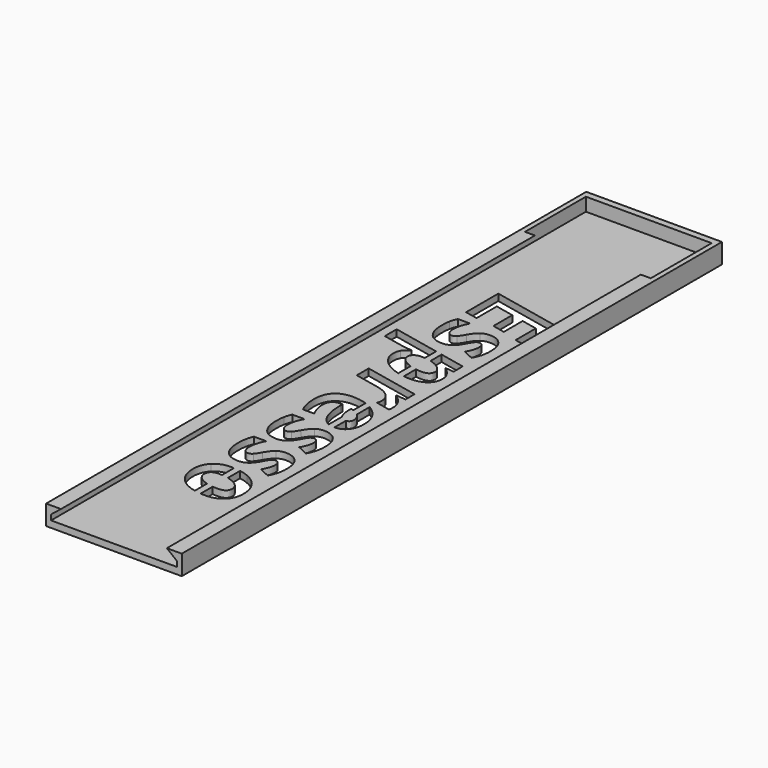
from build123d import *

# Parameters (mm, degrees)
F1_DEPTH = 202
F2_W     = 41
F2_H     = 6
F3_DEPTH = 2
F5_W     = 38
F5_H     = 23
F6_DEPTH = 4
F9_DEPTH = 2


with BuildPart() as f1:
    # F0 (on Front) → F1 (new body)
    with BuildSketch(Plane.XZ):
        Polygon((-20.5, 6), (-20.5, 0), (20.5, 0), (20.5, 6), (16, 6), (19, 3.6), (19, 2), (-19, 2), (-19, 3.6), (-16, 6), align=None)
    extrude(amount=F1_DEPTH)

    # F2 (on Front) → F3 (join)
    with BuildSketch(Plane.XZ):
        with Locations((0, 3)):
            Rectangle(F2_W, F2_H)
    extrude(amount=-F3_DEPTH)

    # F5 (on offset) → F6 (cut)
    with BuildSketch(Plane.XY.offset(6)):
        with Locations((0, -11.5)):
            Rectangle(F5_W, F5_H)
    extrude(amount=-F6_DEPTH, mode=Mode.SUBTRACT)

    # F8 (on offset) → F9 (cut, through all)
    with BuildSketch(Plane.XY.offset(2)):
        Polygon((-9, -45.5649806635), (-9, -57.7537827468), (-5.1805555556, -58.5606403857), (-5.1805555556, -50.9217514968), (0.4435763889, -52.1153278857), (0.4435763889, -59.2290431635), (4.234375, -60.050223719), (4.234375, -52.9317341357), (9.0230034722, -53.9343383024), (9.0230034722, -61.5732271912), (12.8138020833, -62.3800848301), (12.8138020833, -50.1721855246), align=None)
        with BuildLine():
            add(Edge.make_bspline(
                [(-3.4952256944, -73.7047376079), (-6.2977430556, -73.7047376079), (-7.7992621528, -71.8475327468)],
                knots=[0, 0, 0, 1, 1, 1], degree=2))
            add(Edge.make_bspline(
                [(-0.9576822917, -72.8835570524), (-2.0629340278, -73.7047376079), (-3.4952256944, -73.7047376079)],
                knots=[0, 0, 0, 1, 1, 1], degree=2))
            add(Edge.make_bspline(
                [(1.0881076389, -70.2290431635), (0.1475694444, -72.0623764968), (-0.9576822917, -72.8835570524)],
                knots=[0, 0, 0, 1, 1, 1], degree=2))
            add(Edge.make_bspline(
                [(2.1981336806, -68.4386785801), (1.7565104167, -68.9161091357), (1.0881076389, -70.2290431635)],
                knots=[0, 0, 0, 1, 1, 1], degree=2))
            add(Edge.make_bspline(
                [(3.2174479167, -67.9612480246), (2.6397569444, -67.9612480246), (2.1981336806, -68.4386785801)],
                knots=[0, 0, 0, 1, 1, 1], degree=2))
            add(Edge.make_bspline(
                [(4.2415364583, -68.4816473301), (3.8619791667, -67.9612480246), (3.2174479167, -67.9612480246)],
                knots=[0, 0, 0, 1, 1, 1], degree=2))
            add(Edge.make_bspline(
                [(4.62109375, -69.8518730246), (4.62109375, -69.0020466357), (4.2415364583, -68.4816473301)],
                knots=[0, 0, 0, 1, 1, 1], degree=2))
            add(Edge.make_bspline(
                [(3.3702256944, -73.7047376079), (4.62109375, -71.6135917746), (4.62109375, -69.8518730246)],
                knots=[0, 0, 0, 1, 1, 1], degree=2))
            Line((3.3702256944, -73.7047376079), (6.5785590278, -75.1799980246))
            add(Edge.make_bspline(
                [(7.9917534722, -69.7659355246), (7.9917534722, -72.7641994135), (6.5785590278, -75.1799980246)],
                knots=[0, 0, 0, 1, 1, 1], degree=2))
            add(Edge.make_bspline(
                [(6.59765625, -65.056083094), (7.9917534722, -66.7056056635), (7.9917534722, -69.7659355246)],
                knots=[0, 0, 0, 1, 1, 1], degree=2))
            add(Edge.make_bspline(
                [(2.6684027778, -63.4065605246), (5.2035590278, -63.4065605246), (6.59765625, -65.056083094)],
                knots=[0, 0, 0, 1, 1, 1], degree=2))
            add(Edge.make_bspline(
                [(0.2860243056, -64.1227063579), (1.2934027778, -63.4065605246), (2.6684027778, -63.4065605246)],
                knots=[0, 0, 0, 1, 1, 1], degree=2))
            add(Edge.make_bspline(
                [(-1.7335069444, -66.6483139968), (-0.7213541667, -64.8388521912), (0.2860243056, -64.1227063579)],
                knots=[0, 0, 0, 1, 1, 1], degree=2))
            add(Edge.make_bspline(
                [(-3.0177951389, -68.601004969), (-2.51171875, -68.0471855246), (-1.7335069444, -66.6483139968)],
                knots=[0, 0, 0, 1, 1, 1], degree=2))
            add(Edge.make_bspline(
                [(-4.1636284722, -69.1548244135), (-3.5238715278, -69.1548244135), (-3.0177951389, -68.601004969)],
                knots=[0, 0, 0, 1, 1, 1], degree=2))
            add(Edge.make_bspline(
                [(-5.4861111111, -68.3933226774), (-4.9991319444, -69.1548244135), (-4.1636284722, -69.1548244135)],
                knots=[0, 0, 0, 1, 1, 1], degree=2))
            add(Edge.make_bspline(
                [(-5.9730902778, -66.4382445524), (-5.9730902778, -67.6318209412), (-5.4861111111, -68.3933226774)],
                knots=[0, 0, 0, 1, 1, 1], degree=2))
            add(Edge.make_bspline(
                [(-4.6267361111, -61.6782619135), (-5.9730902778, -64.0224459412), (-5.9730902778, -66.4382445524)],
                knots=[0, 0, 0, 1, 1, 1], degree=2))
            Line((-4.6267361111, -61.6782619135), (-8.3268229167, -61.6782619135))
            add(Edge.make_bspline(
                [(-9.0763888889, -63.8935396912), (-8.8519965278, -62.7095119135), (-8.3268229167, -61.6782619135)],
                knots=[0, 0, 0, 1, 1, 1], degree=2))
            add(Edge.make_bspline(
                [(-9.30078125, -66.6769598301), (-9.30078125, -65.077567469), (-9.0763888889, -63.8935396912)],
                knots=[0, 0, 0, 1, 1, 1], degree=2))
            add(Edge.make_bspline(
                [(-7.7992621528, -71.8475327468), (-9.30078125, -69.9903278857), (-9.30078125, -66.6769598301)],
                knots=[0, 0, 0, 1, 1, 1], degree=2))
        make_face()
        with BuildLine():
            Line((7.6814236111, -79.8779146912), (0, -78.2460701284))
            Line((0, -78.2460701284), (0, -82.4328934851))
            add(Edge.make_bspline(
                [(0.6608072917, -82.6326889968), (0.3369384823, -82.5221221202), (0, -82.4328934851)],
                knots=[0, 0, 0, 0.1929894573, 0.1929894573, 0.1929894573], degree=2))
            add(Edge.make_bspline(
                [(3.3463541667, -84.1533053162), (2.3389756944, -83.2056056635), (0.6608072917, -82.6326889968)],
                knots=[0, 0, 0, 1, 1, 1], degree=2))
            add(Edge.make_bspline(
                [(4.3537326389, -86.1179320524), (4.3537326389, -85.101004969), (3.3463541667, -84.1533053162)],
                knots=[0, 0, 0, 1, 1, 1], degree=2))
            add(Edge.make_bspline(
                [(1.7278645833, -88.0706230246), (4.3537326389, -88.0706230246), (4.3537326389, -86.1179320524)],
                knots=[0, 0, 0, 1, 1, 1], degree=2))
            add(Edge.make_bspline(
                [(0, -87.9359820001), (0.8699738761, -88.0706230246), (1.7278645833, -88.0706230246)],
                knots=[0.5090461526, 0.5090461526, 0.5090461526, 1, 1, 1], degree=2))
            Line((0, -87.9359820001), (0, -92.5031942101))
            add(Edge.make_bspline(
                [(1.9045138889, -92.620536219), (0.9401937473, -92.620536219), (0, -92.5031942101)],
                knots=[0, 0, 0, 0.3388946928, 0.3388946928, 0.3388946928], degree=2))
            add(Edge.make_bspline(
                [(6.3899739583, -91.3601195524), (4.7881944444, -92.620536219), (1.9045138889, -92.620536219)],
                knots=[0, 0, 0, 1, 1, 1], degree=2))
            add(Edge.make_bspline(
                [(7.9917534722, -87.9226195524), (7.9917534722, -90.0997028857), (6.3899739583, -91.3601195524)],
                knots=[0, 0, 0, 1, 1, 1], degree=2))
            add(Edge.make_bspline(
                [(5.1462673611, -83.1912827468), (7.9917534722, -85.2490084412), (7.9917534722, -87.9226195524)],
                knots=[0, 0, 0, 1, 1, 1], degree=2))
            Line((5.1462673611, -83.1912827468), (5.1462673611, -83.0576021912))
            Line((5.1462673611, -83.0576021912), (7.6814236111, -83.3106403857))
            Line((7.6814236111, -83.3106403857), (7.6814236111, -79.8779146912))
        make_face()
        with BuildLine():
            Line((-2, -82.0996667161), (-2, -77.8211893653))
            Line((-2, -77.8211893653), (-16.3428819444, -74.7741820524))
            Line((-16.3428819444, -74.7741820524), (-16.3428819444, -79.2668035801))
            Line((-16.3428819444, -79.2668035801), (-11.2677951389, -80.3410223301))
            add(Edge.make_bspline(
                [(-6.8658854167, -80.9855535801), (-9.2387152778, -80.804129969), (-11.2677951389, -80.3410223301)],
                knots=[0, 0, 0, 1, 1, 1], degree=2))
            Line((-6.8658854167, -80.9855535801), (-6.8658854167, -81.104911219))
            add(Edge.make_bspline(
                [(-8.7469618056, -82.759208094), (-8.1931423611, -81.8640258024), (-6.8658854167, -81.104911219)],
                knots=[0, 0, 0, 1, 1, 1], degree=2))
            add(Edge.make_bspline(
                [(-9.30078125, -84.8909355246), (-9.30078125, -83.6543903857), (-8.7469618056, -82.759208094)],
                knots=[0, 0, 0, 1, 1, 1], degree=2))
            add(Edge.make_bspline(
                [(-7.7562934028, -88.8010917746), (-9.30078125, -87.0250501079), (-9.30078125, -84.8909355246)],
                knots=[0, 0, 0, 1, 1, 1], degree=2))
            add(Edge.make_bspline(
                [(-3.5763888889, -91.5988348301), (-6.2118055556, -90.5771334412), (-7.7562934028, -88.8010917746)],
                knots=[0, 0, 0, 1, 1, 1], degree=2))
            add(Edge.make_bspline(
                [(-2, -92.1135823603), (-2.7973720215, -91.9008449925), (-3.5763888889, -91.5988348301)],
                knots=[0.7044046669, 0.7044046669, 0.7044046669, 1, 1, 1], degree=2))
            Line((-2, -92.1135823603), (-2, -87.4536108201))
            add(Edge.make_bspline(
                [(-4.6434461806, -86.0415431635), (-3.667521841, -86.906515548), (-2, -87.4536108201)],
                knots=[0, 0, 0, 0.9485465845, 0.9485465845, 0.9485465845], degree=2))
            add(Edge.make_bspline(
                [(-5.6723090278, -84.1318209412), (-5.6723090278, -85.1296508024), (-4.6434461806, -86.0415431635)],
                knots=[0, 0, 0, 1, 1, 1], degree=2))
            add(Edge.make_bspline(
                [(-4.9561631944, -82.6112046218), (-5.6723090278, -83.1626369135), (-5.6723090278, -84.1318209412)],
                knots=[0, 0, 0, 1, 1, 1], degree=2))
            add(Edge.make_bspline(
                [(-3.0464409722, -82.0597723301), (-4.2400173611, -82.0597723301), (-4.9561631944, -82.6112046218)],
                knots=[0, 0, 0, 1, 1, 1], degree=2))
            add(Edge.make_bspline(
                [(-2, -82.0996667161), (-2.5110028304, -82.0597723301), (-3.0464409722, -82.0597723301)],
                knots=[0.7361177586, 0.7361177586, 0.7361177586, 1, 1, 1], degree=2))
        make_face()
        with BuildLine():
            add(Edge.make_bspline(
                [(7.9917534722, -106.5376369135), (7.9917534722, -107.4208834412), (7.8294270833, -107.9699285801)],
                knots=[0, 0, 0, 1, 1, 1], degree=2))
            add(Edge.make_bspline(
                [(4.5924479167, -101.2715778857), (7.9917534722, -103.4677584412), (7.9917534722, -106.5376369135)],
                knots=[0, 0, 0, 1, 1, 1], degree=2))
            Line((4.5924479167, -101.2715778857), (4.5924479167, -101.1808660801))
            Line((4.5924479167, -101.1808660801), (7.6814236111, -101.4959702468))
            Line((7.6814236111, -101.4959702468), (7.6814236111, -98.0632445524))
            Line((7.6814236111, -98.0632445524), (-9, -94.5302584412))
            Line((-9, -94.5302584412), (-9, -99.0181056635))
            Line((-9, -99.0181056635), (-1.5377604167, -100.6031751079))
            add(Edge.make_bspline(
                [(2.3771701389, -102.4579928162), (1.01171875, -101.1522202468), (-1.5377604167, -100.6031751079)],
                knots=[0, 0, 0, 1, 1, 1], degree=2))
            add(Edge.make_bspline(
                [(3.7426215278, -105.4968383024), (3.7426215278, -103.7637653857), (2.3771701389, -102.4579928162)],
                knots=[0, 0, 0, 1, 1, 1], degree=2))
            add(Edge.make_bspline(
                [(3.50390625, -106.9864216357), (3.7426215278, -106.3132445524), (3.7426215278, -105.4968383024)],
                knots=[0, 0, 0, 1, 1, 1], degree=2))
            Line((3.50390625, -106.9864216357), (7.8294270833, -107.9699285801))
        make_face()
        with BuildLine():
            Line((1.5126531944, -113.4680687943), (1.5126531944, -108.8869175487))
            add(Edge.make_bspline(
                [(-2.8506944444, -108.1799980246), (-0.5142107293, -108.1799980246), (1.5126531944, -108.8869175487)],
                knots=[0, 0, 0, 0.7575652237, 0.7575652237, 0.7575652237], degree=2))
            add(Edge.make_bspline(
                [(-7.6130642361, -109.9106837885), (-5.9253472222, -108.1799980246), (-2.8506944444, -108.1799980246)],
                knots=[0, 0, 0, 1, 1, 1], degree=2))
            add(Edge.make_bspline(
                [(-9.30078125, -114.7780883024), (-9.30078125, -111.6413695524), (-7.6130642361, -109.9106837885)],
                knots=[0, 0, 0, 1, 1, 1], degree=2))
            add(Edge.make_bspline(
                [(-8.0164930556, -120.593192469), (-9.30078125, -118.0293903857), (-9.30078125, -114.7780883024)],
                knots=[0, 0, 0, 1, 1, 1], degree=2))
            Line((-8.0164930556, -120.593192469), (-4.6267361111, -120.593192469))
            add(Edge.make_bspline(
                [(-5.626953125, -118.0293903857), (-5.3428819444, -119.089286219), (-4.6267361111, -120.593192469)],
                knots=[0, 0, 0, 1, 1, 1], degree=2))
            add(Edge.make_bspline(
                [(-5.9110243056, -115.6708834412), (-5.9110243056, -116.9694945524), (-5.626953125, -118.0293903857)],
                knots=[0, 0, 0, 1, 1, 1], degree=2))
            add(Edge.make_bspline(
                [(-5.1280381944, -113.4699285801), (-5.9110243056, -114.2385917746), (-5.9110243056, -115.6708834412)],
                knots=[0, 0, 0, 1, 1, 1], degree=2))
            add(Edge.make_bspline(
                [(-2.9891493056, -112.7012653857), (-4.3450520833, -112.7012653857), (-5.1280381944, -113.4699285801)],
                knots=[0, 0, 0, 1, 1, 1], degree=2))
            Line((-2.9891493056, -112.7012653857), (-2.6883680556, -112.7012653857))
            Line((-2.6883680556, -112.7012653857), (-2.3732638889, -112.729911219))
            Line((-2.3732638889, -112.729911219), (-2.3732638889, -113.4938001079))
            add(Edge.make_bspline(
                [(-0.8598090278, -120.6099025385), (-2.3732638889, -118.1201021912), (-2.3732638889, -113.4938001079)],
                knots=[0, 0, 0, 1, 1, 1], degree=2))
            add(Edge.make_bspline(
                [(1.5126531944, -122.7425399266), (0.0804270444, -122.1566946887), (-0.8598090278, -120.6099025385)],
                knots=[0.3787485202, 0.3787485202, 0.3787485202, 1, 1, 1], degree=2))
            Line((1.5126531944, -122.7425399266), (1.5126531944, -117.7230849412))
            add(Edge.make_bspline(
                [(1.376953125, -117.499442469), (1.4426839169, -117.6165864545), (1.5126531944, -117.7230849412)],
                knots=[0, 0, 0, 0.0908753342, 0.0908753342, 0.0908753342], degree=2))
            add(Edge.make_bspline(
                [(0.6536458333, -113.8948417746), (0.6536458333, -116.210379969), (1.376953125, -117.499442469)],
                knots=[0, 0, 0, 1, 1, 1], degree=2))
            Line((0.6536458333, -113.8948417746), (0.6536458333, -113.2264389968))
            add(Edge.make_bspline(
                [(1.5126531944, -113.4680687943), (1.1008643415, -113.3198690473), (0.6536458333, -113.2264389968)],
                knots=[0.73907535, 0.73907535, 0.73907535, 1, 1, 1], degree=2))
        make_face()
        with BuildLine():
            add(Edge.make_bspline(
                [(3.5126531944, -109.7999024186), (5.5225885945, -110.9582283647), (6.6573350694, -112.7466212885)],
                knots=[0.1496321749, 0.1496321749, 0.1496321749, 1, 1, 1], degree=2))
            Line((3.5126531944, -109.7999024186), (3.5126531944, -114.7003103))
            add(Edge.make_bspline(
                [(3.5611979167, -114.7470553162), (3.5370322164, -114.7235179242), (3.5126531944, -114.7003103)],
                knots=[0, 0, 0, 0.0202464631, 0.0202464631, 0.0202464631], degree=2))
            add(Edge.make_bspline(
                [(4.7547743056, -117.2225327468), (4.7547743056, -115.909598719), (3.5611979167, -114.7470553162)],
                knots=[0, 0, 0, 1, 1, 1], degree=2))
            add(Edge.make_bspline(
                [(3.5126531944, -118.7820789883), (4.7547743056, -118.6881909256), (4.7547743056, -117.2225327468)],
                knots=[0.0640586353, 0.0640586353, 0.0640586353, 1, 1, 1], degree=2))
            Line((3.5126531944, -118.7820789883), (3.5126531944, -123.0992883519))
            add(Edge.make_bspline(
                [(6.7766927083, -121.624442469), (5.5819997219, -123.0749734427), (3.5126531944, -123.0992883519)],
                knots=[0, 0, 0, 0.9832372355, 0.9832372355, 0.9832372355], degree=2))
            add(Edge.make_bspline(
                [(7.9917534722, -117.5042167746), (7.9917534722, -120.1491820524), (6.7766927083, -121.624442469)],
                knots=[0, 0, 0, 1, 1, 1], degree=2))
            add(Edge.make_bspline(
                [(6.6573350694, -112.7466212885), (7.9917534722, -114.8497028857), (7.9917534722, -117.5042167746)],
                knots=[0, 0, 0, 1, 1, 1], degree=2))
        make_face()
        with BuildLine():
            add(Edge.make_bspline(
                [(-3.4952256944, -136.233817469), (-6.2977430556, -136.233817469), (-7.7992621528, -134.3766126079)],
                knots=[0, 0, 0, 1, 1, 1], degree=2))
            add(Edge.make_bspline(
                [(-0.9576822917, -135.4126369135), (-2.0629340278, -136.233817469), (-3.4952256944, -136.233817469)],
                knots=[0, 0, 0, 1, 1, 1], degree=2))
            add(Edge.make_bspline(
                [(1.0881076389, -132.7581230246), (0.1475694444, -134.5914563579), (-0.9576822917, -135.4126369135)],
                knots=[0, 0, 0, 1, 1, 1], degree=2))
            add(Edge.make_bspline(
                [(2.1981336806, -130.9677584412), (1.7565104167, -131.4451889968), (1.0881076389, -132.7581230246)],
                knots=[0, 0, 0, 1, 1, 1], degree=2))
            add(Edge.make_bspline(
                [(3.2174479167, -130.4903278857), (2.6397569444, -130.4903278857), (2.1981336806, -130.9677584412)],
                knots=[0, 0, 0, 1, 1, 1], degree=2))
            add(Edge.make_bspline(
                [(4.2415364583, -131.0107271912), (3.8619791667, -130.4903278857), (3.2174479167, -130.4903278857)],
                knots=[0, 0, 0, 1, 1, 1], degree=2))
            add(Edge.make_bspline(
                [(4.62109375, -132.3809528857), (4.62109375, -131.5311264968), (4.2415364583, -131.0107271912)],
                knots=[0, 0, 0, 1, 1, 1], degree=2))
            add(Edge.make_bspline(
                [(3.3702256944, -136.233817469), (4.62109375, -134.1426716357), (4.62109375, -132.3809528857)],
                knots=[0, 0, 0, 1, 1, 1], degree=2))
            Line((3.3702256944, -136.233817469), (6.5785590278, -137.7090778857))
            add(Edge.make_bspline(
                [(7.9917534722, -132.2950153857), (7.9917534722, -135.2932792746), (6.5785590278, -137.7090778857)],
                knots=[0, 0, 0, 1, 1, 1], degree=2))
            add(Edge.make_bspline(
                [(6.59765625, -127.5851629551), (7.9917534722, -129.2346855246), (7.9917534722, -132.2950153857)],
                knots=[0, 0, 0, 1, 1, 1], degree=2))
            add(Edge.make_bspline(
                [(2.6684027778, -125.9356403857), (5.2035590278, -125.9356403857), (6.59765625, -127.5851629551)],
                knots=[0, 0, 0, 1, 1, 1], degree=2))
            add(Edge.make_bspline(
                [(0.2860243056, -126.651786219), (1.2934027778, -125.9356403857), (2.6684027778, -125.9356403857)],
                knots=[0, 0, 0, 1, 1, 1], degree=2))
            add(Edge.make_bspline(
                [(-1.7335069444, -129.1773938579), (-0.7213541667, -127.3679320524), (0.2860243056, -126.651786219)],
                knots=[0, 0, 0, 1, 1, 1], degree=2))
            add(Edge.make_bspline(
                [(-3.0177951389, -131.1300848301), (-2.51171875, -130.5762653857), (-1.7335069444, -129.1773938579)],
                knots=[0, 0, 0, 1, 1, 1], degree=2))
            add(Edge.make_bspline(
                [(-4.1636284722, -131.6839042746), (-3.5238715278, -131.6839042746), (-3.0177951389, -131.1300848301)],
                knots=[0, 0, 0, 1, 1, 1], degree=2))
            add(Edge.make_bspline(
                [(-5.4861111111, -130.9224025385), (-4.9991319444, -131.6839042746), (-4.1636284722, -131.6839042746)],
                knots=[0, 0, 0, 1, 1, 1], degree=2))
            add(Edge.make_bspline(
                [(-5.9730902778, -128.9673244135), (-5.9730902778, -130.1609008024), (-5.4861111111, -130.9224025385)],
                knots=[0, 0, 0, 1, 1, 1], degree=2))
            add(Edge.make_bspline(
                [(-4.6267361111, -124.2073417746), (-5.9730902778, -126.5515258024), (-5.9730902778, -128.9673244135)],
                knots=[0, 0, 0, 1, 1, 1], degree=2))
            Line((-4.6267361111, -124.2073417746), (-8.3268229167, -124.2073417746))
            add(Edge.make_bspline(
                [(-9.0763888889, -126.4226195524), (-8.8519965278, -125.2385917746), (-8.3268229167, -124.2073417746)],
                knots=[0, 0, 0, 1, 1, 1], degree=2))
            add(Edge.make_bspline(
                [(-9.30078125, -129.2060396912), (-9.30078125, -127.6066473301), (-9.0763888889, -126.4226195524)],
                knots=[0, 0, 0, 1, 1, 1], degree=2))
            add(Edge.make_bspline(
                [(-7.7992621528, -134.3766126079), (-9.30078125, -132.5194077468), (-9.30078125, -129.2060396912)],
                knots=[0, 0, 0, 1, 1, 1], degree=2))
        make_face()
        with BuildLine():
            add(Edge.make_bspline(
                [(-3.4952256944, -150.6904146912), (-6.2977430556, -150.6904146912), (-7.7992621528, -148.8332098301)],
                knots=[0, 0, 0, 1, 1, 1], degree=2))
            add(Edge.make_bspline(
                [(-0.9576822917, -149.8692341357), (-2.0629340278, -150.6904146912), (-3.4952256944, -150.6904146912)],
                knots=[0, 0, 0, 1, 1, 1], degree=2))
            add(Edge.make_bspline(
                [(1.0881076389, -147.2147202468), (0.1475694444, -149.0480535801), (-0.9576822917, -149.8692341357)],
                knots=[0, 0, 0, 1, 1, 1], degree=2))
            add(Edge.make_bspline(
                [(2.1981336806, -145.4243556635), (1.7565104167, -145.901786219), (1.0881076389, -147.2147202468)],
                knots=[0, 0, 0, 1, 1, 1], degree=2))
            add(Edge.make_bspline(
                [(3.2174479167, -144.9469251079), (2.6397569444, -144.9469251079), (2.1981336806, -145.4243556635)],
                knots=[0, 0, 0, 1, 1, 1], degree=2))
            add(Edge.make_bspline(
                [(4.2415364583, -145.4673244135), (3.8619791667, -144.9469251079), (3.2174479167, -144.9469251079)],
                knots=[0, 0, 0, 1, 1, 1], degree=2))
            add(Edge.make_bspline(
                [(4.62109375, -146.8375501079), (4.62109375, -145.987723719), (4.2415364583, -145.4673244135)],
                knots=[0, 0, 0, 1, 1, 1], degree=2))
            add(Edge.make_bspline(
                [(3.3702256944, -150.6904146912), (4.62109375, -148.5992688579), (4.62109375, -146.8375501079)],
                knots=[0, 0, 0, 1, 1, 1], degree=2))
            Line((3.3702256944, -150.6904146912), (6.5785590278, -152.1656751079))
            add(Edge.make_bspline(
                [(7.9917534722, -146.7516126079), (7.9917534722, -149.7498764968), (6.5785590278, -152.1656751079)],
                knots=[0, 0, 0, 1, 1, 1], degree=2))
            add(Edge.make_bspline(
                [(6.59765625, -142.0417601774), (7.9917534722, -143.6912827468), (7.9917534722, -146.7516126079)],
                knots=[0, 0, 0, 1, 1, 1], degree=2))
            add(Edge.make_bspline(
                [(2.6684027778, -140.3922376079), (5.2035590278, -140.3922376079), (6.59765625, -142.0417601774)],
                knots=[0, 0, 0, 1, 1, 1], degree=2))
            add(Edge.make_bspline(
                [(0.2860243056, -141.1083834412), (1.2934027778, -140.3922376079), (2.6684027778, -140.3922376079)],
                knots=[0, 0, 0, 1, 1, 1], degree=2))
            add(Edge.make_bspline(
                [(-1.7335069444, -143.6339910801), (-0.7213541667, -141.8245292746), (0.2860243056, -141.1083834412)],
                knots=[0, 0, 0, 1, 1, 1], degree=2))
            add(Edge.make_bspline(
                [(-3.0177951389, -145.5866820524), (-2.51171875, -145.0328626079), (-1.7335069444, -143.6339910801)],
                knots=[0, 0, 0, 1, 1, 1], degree=2))
            add(Edge.make_bspline(
                [(-4.1636284722, -146.1405014968), (-3.5238715278, -146.1405014968), (-3.0177951389, -145.5866820524)],
                knots=[0, 0, 0, 1, 1, 1], degree=2))
            add(Edge.make_bspline(
                [(-5.4861111111, -145.3789997607), (-4.9991319444, -146.1405014968), (-4.1636284722, -146.1405014968)],
                knots=[0, 0, 0, 1, 1, 1], degree=2))
            add(Edge.make_bspline(
                [(-5.9730902778, -143.4239216357), (-5.9730902778, -144.6174980246), (-5.4861111111, -145.3789997607)],
                knots=[0, 0, 0, 1, 1, 1], degree=2))
            add(Edge.make_bspline(
                [(-4.6267361111, -138.6639389968), (-5.9730902778, -141.0081230246), (-5.9730902778, -143.4239216357)],
                knots=[0, 0, 0, 1, 1, 1], degree=2))
            Line((-4.6267361111, -138.6639389968), (-8.3268229167, -138.6639389968))
            add(Edge.make_bspline(
                [(-9.0763888889, -140.8792167746), (-8.8519965278, -139.6951889968), (-8.3268229167, -138.6639389968)],
                knots=[0, 0, 0, 1, 1, 1], degree=2))
            add(Edge.make_bspline(
                [(-9.30078125, -143.6626369135), (-9.30078125, -142.0632445524), (-9.0763888889, -140.8792167746)],
                knots=[0, 0, 0, 1, 1, 1], degree=2))
            add(Edge.make_bspline(
                [(-7.7992621528, -148.8332098301), (-9.30078125, -146.976004969), (-9.30078125, -143.6626369135)],
                knots=[0, 0, 0, 1, 1, 1], degree=2))
        make_face()
        with BuildLine():
            add(Edge.make_bspline(
                [(-2, -168.9617269454), (-3.1616871193, -168.7045197587), (-4.1946614583, -168.2574719829)],
                knots=[0.5753460831, 0.5753460831, 0.5753460831, 1, 1, 1], degree=2))
            Line((-2, -168.9617269454), (-2, -164.3390345739))
            add(Edge.make_bspline(
                [(-2.1727430556, -164.2876369135), (-2.0867751823, -164.3140305588), (-2, -164.3390345739)],
                knots=[0, 0, 0, 0.0526501808, 0.0526501808, 0.0526501808], degree=2))
            add(Edge.make_bspline(
                [(-4.724609375, -162.8911525385), (-3.8055555556, -163.7863348301), (-2.1727430556, -164.2876369135)],
                knots=[0, 0, 0, 1, 1, 1], degree=2))
            add(Edge.make_bspline(
                [(-5.6436631944, -160.8787827468), (-5.6436631944, -161.9959702468), (-4.724609375, -162.8911525385)],
                knots=[0, 0, 0, 1, 1, 1], degree=2))
            add(Edge.make_bspline(
                [(-2.8841145833, -158.6396334412), (-5.6436631944, -158.6396334412), (-5.6436631944, -160.8787827468)],
                knots=[0, 0, 0, 1, 1, 1], degree=2))
            add(Edge.make_bspline(
                [(-2, -158.6715275717), (-2.4390035983, -158.6396334412), (-2.8841145833, -158.6396334412)],
                knots=[0.7615587748, 0.7615587748, 0.7615587748, 1, 1, 1], degree=2))
            Line((-2, -158.6715275717), (-2, -154.1396414783))
            add(Edge.make_bspline(
                [(-2.8841145833, -154.1183660801), (-2.4351320782, -154.1183660801), (-2, -154.1396414783)],
                knots=[0, 0, 0, 0.1412033431, 0.1412033431, 0.1412033431], degree=2))
            add(Edge.make_bspline(
                [(-7.5462239583, -155.8562133024), (-5.7916666667, -154.1183660801), (-2.8841145833, -154.1183660801)],
                knots=[0, 0, 0, 1, 1, 1], degree=2))
            add(Edge.make_bspline(
                [(-9.30078125, -160.5063869135), (-9.30078125, -157.5940605246), (-7.5462239583, -155.8562133024)],
                knots=[0, 0, 0, 1, 1, 1], degree=2))
            add(Edge.make_bspline(
                [(-7.9639756944, -165.2210136496), (-9.30078125, -163.2372896912), (-9.30078125, -160.5063869135)],
                knots=[0, 0, 0, 1, 1, 1], degree=2))
            add(Edge.make_bspline(
                [(-4.1946614583, -168.2574719829), (-6.6271701389, -167.2047376079), (-7.9639756944, -165.2210136496)],
                knots=[0, 0, 0, 1, 1, 1], degree=2))
        make_face()
        with BuildLine():
            Line((0, -164.7202912422), (0, -169.256559755))
            add(Edge.make_bspline(
                [(1.3841145833, -169.3102063579), (0.6738709716, -169.3102063579), (0, -169.256559755)],
                knots=[0, 0, 0, 0.2257416584, 0.2257416584, 0.2257416584], degree=2))
            add(Edge.make_bspline(
                [(6.232421875, -167.6081664274), (4.4730902778, -169.3102063579), (1.3841145833, -169.3102063579)],
                knots=[0, 0, 0, 1, 1, 1], degree=2))
            add(Edge.make_bspline(
                [(7.9917534722, -162.9842514968), (7.9917534722, -165.9061264968), (6.232421875, -167.6081664274)],
                knots=[0, 0, 0, 1, 1, 1], degree=2))
            add(Edge.make_bspline(
                [(6.6286892361, -158.2672376079), (7.9917534722, -160.2819945524), (7.9917534722, -162.9842514968)],
                knots=[0, 0, 0, 1, 1, 1], degree=2))
            add(Edge.make_bspline(
                [(2.7805989583, -155.1854233718), (5.265625, -156.2524806635), (6.6286892361, -158.2672376079)],
                knots=[0, 0, 0, 1, 1, 1], degree=2))
            add(Edge.make_bspline(
                [(0, -154.3627186628), (1.4847472915, -154.6289913881), (2.7805989583, -155.1854233718)],
                knots=[0.4785359811, 0.4785359811, 0.4785359811, 1, 1, 1], degree=2))
            Line((0, -154.3627186628), (0, -158.9901611025))
            add(Edge.make_bspline(
                [(0.7419704861, -159.200614344), (0.3733432344, -159.0830737685), (0, -158.9901611025)],
                knots=[0, 0, 0, 0.209526875, 0.209526875, 0.209526875], degree=2))
            add(Edge.make_bspline(
                [(3.4131944444, -160.6472289274), (2.5013020833, -159.7615952468), (0.7419704861, -159.200614344)],
                knots=[0, 0, 0, 1, 1, 1], degree=2))
            add(Edge.make_bspline(
                [(4.3250868056, -162.6548244135), (4.3250868056, -161.5328626079), (3.4131944444, -160.6472289274)],
                knots=[0, 0, 0, 1, 1, 1], degree=2))
            add(Edge.make_bspline(
                [(1.3841145833, -164.7889389968), (4.3250868056, -164.7889389968), (4.3250868056, -162.6548244135)],
                knots=[0, 0, 0, 1, 1, 1], degree=2))
            add(Edge.make_bspline(
                [(0, -164.7202912422), (0.6721167534, -164.7889389968), (1.3841145833, -164.7889389968)],
                knots=[0.6299474396, 0.6299474396, 0.6299474396, 1, 1, 1], degree=2))
        make_face()
    extrude(amount=-F9_DEPTH, mode=Mode.SUBTRACT)


solid = f1.part
